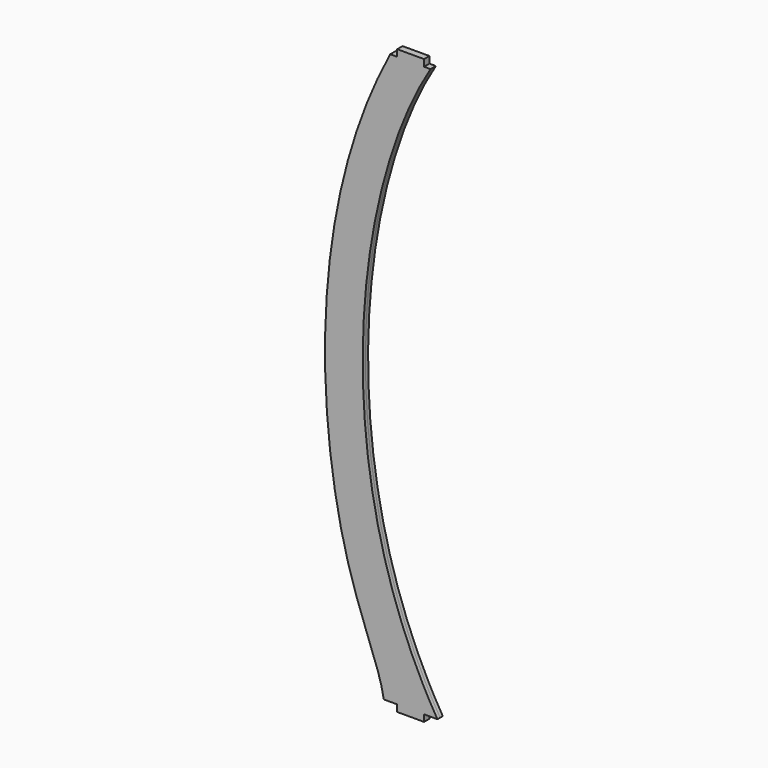
from build123d import *

# Parameters (mm, degrees)
F1_DEPTH = 12.7
F2_W     = 101.6
F2_H     = 25.4
F3_DEPTH = 25.4


with BuildPart() as f1:
    # F0 (on Front) → F1 (new body, symmetric)
    with BuildSketch(Plane.XZ):
        with BuildLine():
            add(Edge.make_bspline(
                [(-945.5808670162, 965.2), (-1242.0630128025, 484.7582280636), (-1340.5170440674, -494.4096505642), (-919.226, -1193.8)],
                knots=[0, 0, 0, 0, 2159.1608506583, 2159.1608506583, 2159.1608506583, 2159.1608506583], degree=3))
            Line((-945.5808670162, 965.2), (-1097.9808670162, 965.2))
            add(Edge.make_bspline(
                [(-1097.9808670162, 965.2), (-1417.2196388245, 366.0375773907), (-1348.5663086676, -720.7227352137), (-1140.6033039093, -1081.5900564194), (-1122.426, -1193.8)],
                knots=[0, 0, 0, 0, 0.6575295809, 1, 1, 1, 1], degree=3))
            Line((-1122.426, -1193.8), (-919.226, -1193.8))
        make_face()
    extrude(amount=F1_DEPTH, both=True)

    # F2 (on face) → F3 (join, through all)
    with BuildSketch(Plane.XZ.offset(12.7)):
        with Locations((-1020.826, 977.9)):
            Rectangle(F2_W, F2_H)
        with Locations((-1020.826, -1206.5)):
            Rectangle(F2_W, F2_H)
    extrude(amount=-F3_DEPTH)


solid = f1.part
